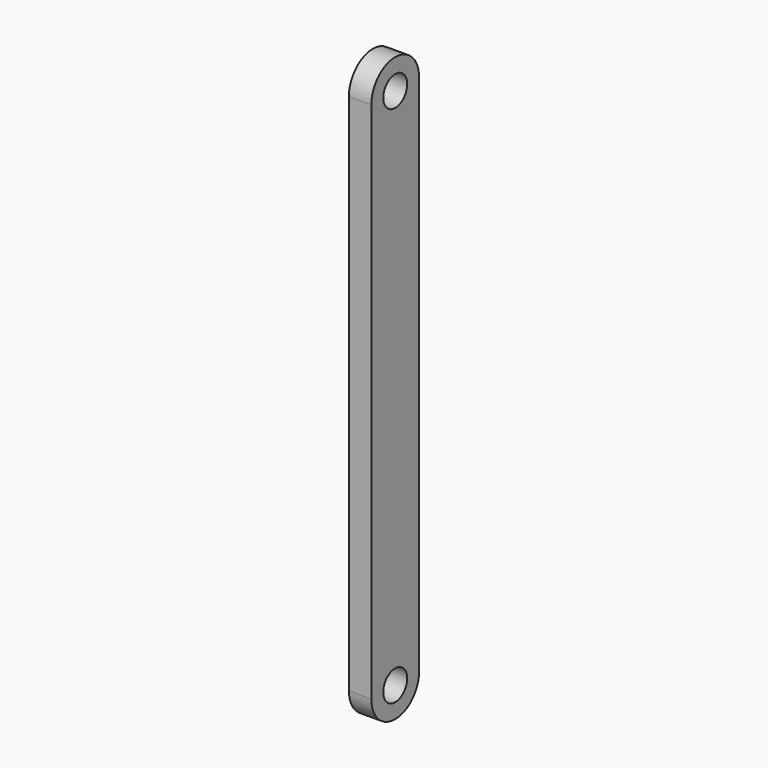
from build123d import *

# Parameters (mm, degrees)
F0_R     = 4
F1_DEPTH = 6


with BuildPart() as f1:
    # F0 (on Right) → F1 (new body)
    with BuildSketch(Plane.YZ):
        with BuildLine():
            Line((8, -140), (8, 0))
            ThreePointArc((8, 0), (0, 8), (-8, 0))
            Line((-8, 0), (-8, -140))
            ThreePointArc((-8, -140), (0, -148), (8, -140))
        make_face()
        with Locations((0, -140)):
            Circle(F0_R, mode=Mode.SUBTRACT)
        Circle(F0_R, mode=Mode.SUBTRACT)
    extrude(amount=F1_DEPTH)


solid = f1.part
